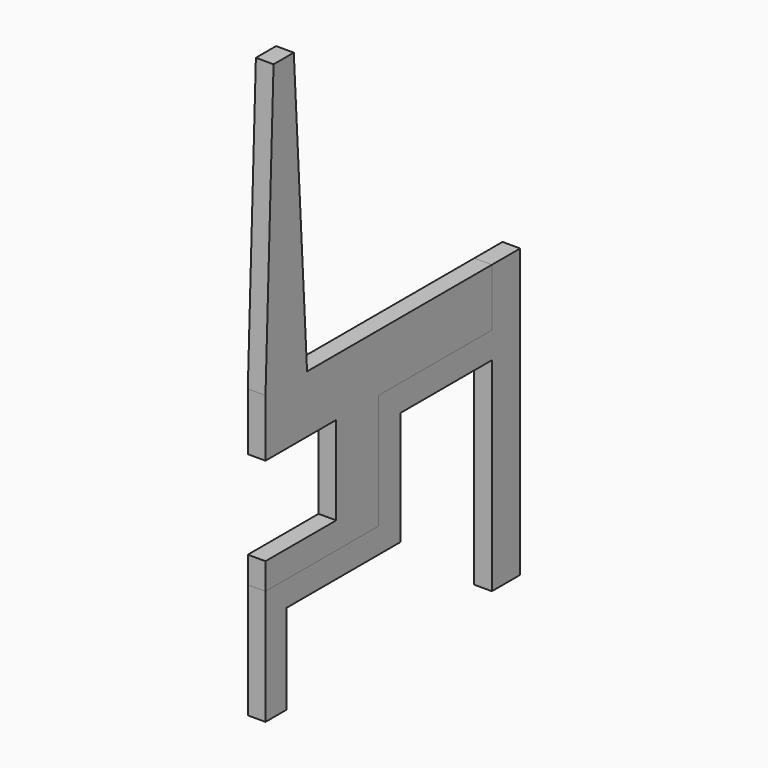
from build123d import *

# Parameters (mm, degrees)
F1_DEPTH = 25.4
F2_DEPTH = 25.4


with BuildPart() as f1:
    # F0 (on Right) → F1 (new body)
    with BuildSketch(Plane.YZ):
        Polygon((0, 203.2), (0, 165.1), (203.2, 165.1), (203.2, 330.2), (406.4, 330.2), (406.4, 412.75), (74.603324, 412.75), (50.8, 412.75), (0, 412.75), (0, 330.2), (127, 330.2), (127, 203.2), align=None)
        Polygon((50.8, 825.5), (50.8, 412.75), (74.603324, 412.75), align=None)
        Polygon((14.482455, 825.5), (0, 412.75), (50.8, 412.75), (50.8, 825.5), align=None)
    extrude(amount=F1_DEPTH)


with BuildPart() as f2:
    # F0 (on Right) → F2 (new body)
    with BuildSketch(Plane.YZ):
        Polygon((406.4, 412.75), (406.4, 330.2), (406.4, 292.1), (406.4, 0), (457.2, 0), (457.2, 412.75), align=None)
        Polygon((0, 165.1), (0, 0), (38.037691, 0), (38.037691, 128.867954), (203.2, 128.867954), (241.939574, 128.867954), (241.939574, 292.1), (406.4, 292.1), (406.4, 330.2), (203.2, 330.2), (203.2, 165.1), align=None)
    extrude(amount=F2_DEPTH)


solid = Compound([f1.part, f2.part])
